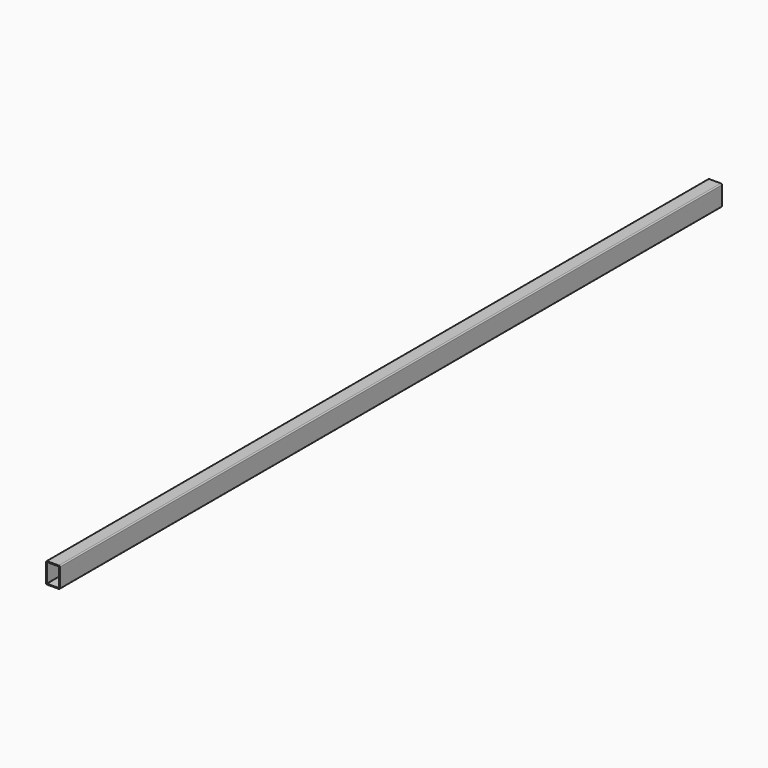
from build123d import *

# Parameters (mm, degrees)
F1_DEPTH = 3048


with BuildPart() as f1:
    # F0 (on Front) → F1 (new body, symmetric)
    with BuildSketch(Plane.XZ):
        with BuildLine():
            Line((42.8625, 76.2), (-42.8625, 76.2))
            ThreePointArc((-42.8625, 76.2), (-48.47516, 73.87516), (-50.8, 68.2625))
            Line((-50.8, 68.2625), (-50.8, -68.2625))
            ThreePointArc((-50.8, -68.2625), (-48.47516, -73.87516), (-42.8625, -76.2))
            Line((-42.8625, -76.2), (42.8625, -76.2))
            ThreePointArc((42.8625, -76.2), (48.47516, -73.87516), (50.8, -68.2625))
            Line((50.8, -68.2625), (50.8, 68.2625))
            ThreePointArc((50.8, 68.2625), (48.47516, 73.87516), (42.8625, 76.2))
        make_face()
        with BuildLine():
            ThreePointArc((-44.45, 68.2625), (-43.985032, 69.385032), (-42.8625, 69.85))
            Line((-42.8625, 69.85), (42.8625, 69.85))
            ThreePointArc((42.8625, 69.85), (43.985032, 69.385032), (44.45, 68.2625))
            Line((44.45, 68.2625), (44.45, -68.2625))
            ThreePointArc((44.45, -68.2625), (43.985032, -69.385032), (42.8625, -69.85))
            Line((42.8625, -69.85), (-42.8625, -69.85))
            ThreePointArc((-42.8625, -69.85), (-43.985032, -69.385032), (-44.45, -68.2625))
            Line((-44.45, -68.2625), (-44.45, 68.2625))
        make_face(mode=Mode.SUBTRACT)
    extrude(amount=F1_DEPTH, both=True)


solid = f1.part
